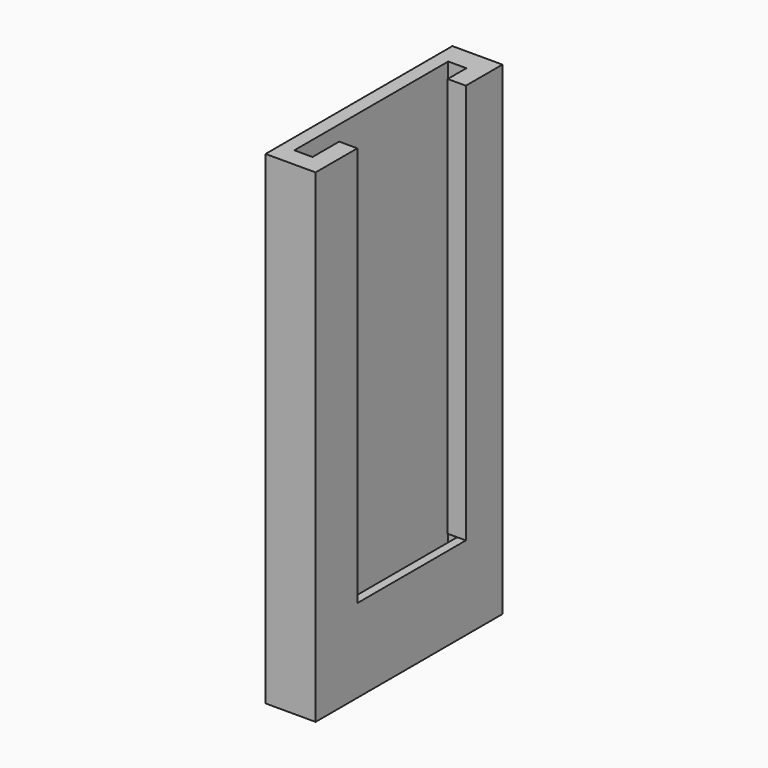
from build123d import *

# Parameters (mm, degrees)
F0_W      = 10
F0_H      = 70
F1_DEPTH  = 145
F2_DEPTH  = 5
F3_W      = 8.287649136
F3_H      = 57.6572036371
F4_DEPTH  = 140
F5_W      = 2.6011180505
F5_H      = 57.6572036371
F6_DEPTH  = 120
F8_DEPTH  = 10
F10_DEPTH = 7


with BuildPart() as f1:
    # F0 (on Top) → F1 (new body)
    with BuildSketch(Plane.XY):
        with Locations((-5.0640162081, 34.8435932503)):
            Rectangle(F0_W, F0_H)
    extrude(amount=F1_DEPTH)

    # F2 (add): a face of the model
    f2_faces = [f1.faces().sort_by_distance(p)[0] for p in [
        (-0.0640162081, 34.8435932503, 72.5),
    ]]
    extrude(f2_faces, amount=F2_DEPTH)

    # F3 (on face) → F4 (cut)
    with BuildSketch(Plane.XY.offset(145)):
        with Locations((-1.8089588266, 34.3119842)):
            Rectangle(F3_W, F3_H)
    extrude(amount=-F4_DEPTH, mode=Mode.SUBTRACT)

    # F5 (on face) → F6 (cut)
    with BuildSketch(Plane.XY.offset(145)):
        with Locations((3.6354247667, 34.3119842)):
            Rectangle(F5_W, F5_H)
    extrude(amount=-F6_DEPTH, mode=Mode.SUBTRACT)

    # F7 (on face) → F8 (join)
    with BuildSketch(Plane(origin=(0, 5.4833823815, 0), x_dir=(-1, 0, 0), z_dir=(0, 1, 0))):
        Polygon((0.5083998013, 25), (0.5083998013, 145), (-4.9359837919, 145), (-4.9359837919, 25), (-2.3348657414, 25), align=None)
    extrude(amount=F8_DEPTH)

    # F9 (on face) → F10 (join)
    with BuildSketch(Plane.XZ.offset(-63.1405860186)):
        Polygon((4.9359837919, 145), (-0.5083998013, 145), (-0.5083998013, 25), (2.3348657414, 25), (4.9359837919, 25), align=None)
    extrude(amount=F10_DEPTH)


solid = f1.part
